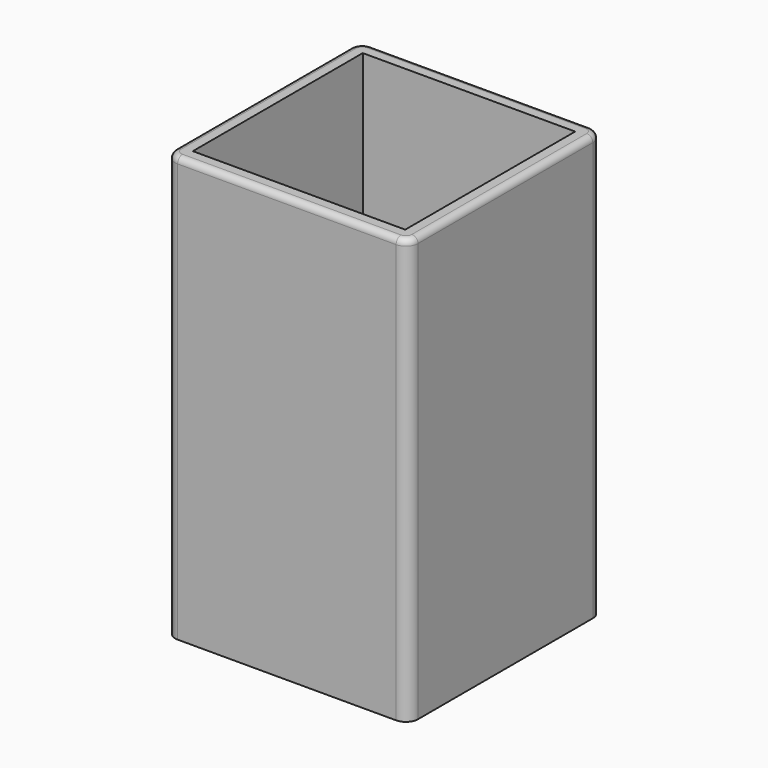
from build123d import *

# Parameters (mm, degrees)
F1_DEPTH = 70
F2_T     = -2.5
F3_R     = 1


with BuildPart() as f1:
    # F0 (on Top) → F1 (new body)
    with BuildSketch(Plane.XY):
        with BuildLine():
            ThreePointArc((20, 18), (19.4142135624, 19.4142135624), (18, 20))
            Line((18, 20), (-18, 20))
            ThreePointArc((-18, 20), (-19.4142135624, 19.4142135624), (-20, 18))
            Line((-20, 18), (-20, -18))
            ThreePointArc((-20, -18), (-19.4142135624, -19.4142135624), (-18, -20))
            Line((-18, -20), (18, -20))
            ThreePointArc((18, -20), (19.4142135624, -19.4142135624), (20, -18))
            Line((20, -18), (20, 18))
        make_face()
    extrude(amount=F1_DEPTH)

    # F2
    f2_openings = [f1.faces().sort_by_distance(p)[0] for p in [
        (0, 0, 70),
    ]]
    offset(amount=F2_T, openings=f2_openings)

    # F3
    f3_edges = [f1.edges().sort_by_distance(p)[0] for p in [
        (0, -20, 70),
    ]]
    fillet(f3_edges, radius=F3_R)


solid = f1.part
